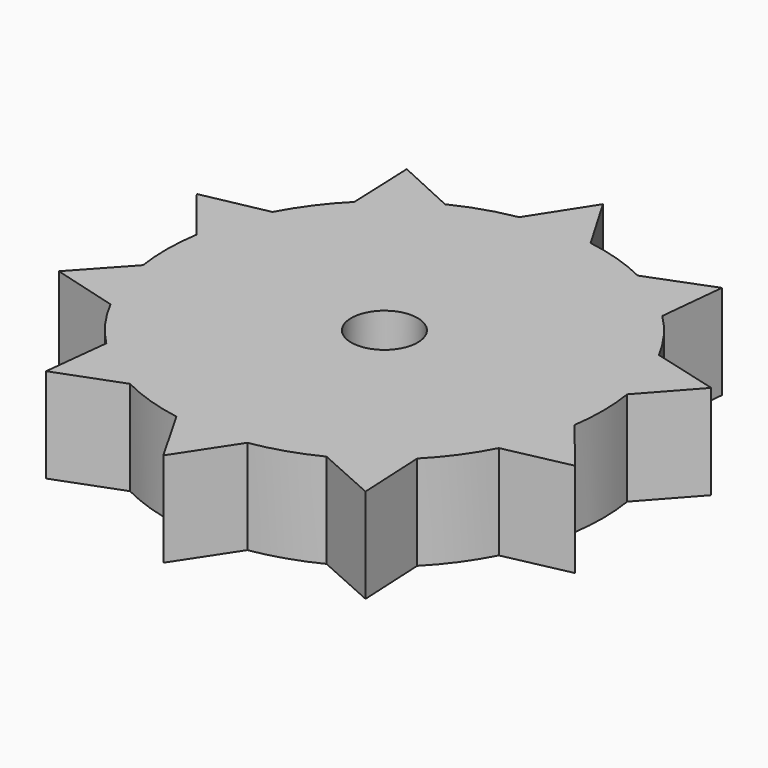
from build123d import *

# Parameters (mm, degrees)
F0_R     = 8.924881
F1_DEPTH = 25.4


with BuildPart() as f1:
    # F0 (on Top) → F1 (new body)
    with BuildSketch(Plane.XY):
        with BuildLine():
            Line((0, 73.399357), (-10.024788, 57.810382))
            ThreePointArc((-10.024788, 57.810382), (-18.123263, 55.803978), (-25.855271, 52.669172))
            Line((-25.855271, 52.669172), (-42.100142, 60.125234))
            Line((-42.100142, 60.125234), (-41.370499, 41.605511))
            ThreePointArc((-41.370499, 41.605511), (-47.193789, 34.860908), (-51.928579, 27.312257))
            Line((-51.928579, 27.312257), (-69.446667, 23.761863))
            Line((-69.446667, 23.761863), (-57.942551, 9.230248))
            ThreePointArc((-57.942551, 9.230248), (-58.672093, 0.349475), (-58.048394, -8.53936))
            Line((-58.048394, -8.53936), (-70.108395, -21.731974))
            Line((-70.108395, -21.731974), (-52.250248, -26.691726))
            ThreePointArc((-52.250248, -26.691726), (-47.605717, -34.296244), (-41.863184, -41.109737))
            Line((-41.863184, -41.109737), (-43.831057, -58.875327))
            Line((-43.831057, -58.875327), (-26.480851, -52.357437))
            ThreePointArc((-26.480851, -52.357437), (-18.246902, -55.763673), (-9.592097, -57.883748))
            Line((-9.592097, -57.883748), (-0.711689, -73.395907))
            Line((-0.711689, -73.395907), (9.46378, -57.904866))
            ThreePointArc((9.46378, -57.904866), (18.123263, -55.803978), (26.364742, -52.416))
            Line((26.364742, -52.416), (42.681144, -59.714199))
            Line((42.681144, -59.714199), (41.771966, -41.202421))
            ThreePointArc((41.771966, -41.202421), (47.529586, -34.401673), (52.190961, -26.807467))
            Line((52.190961, -26.807467), (69.6738, -23.087383))
            Line((69.6738, -23.087383), (58.029324, -8.667996))
            ThreePointArc((58.029324, -8.667996), (58.672724, 0.219434), (57.962866, 9.101802))
            Line((57.962866, 9.101802), (69.894383, 22.410732))
            Line((69.894383, 22.410732), (51.988986, 27.197096))
            ThreePointArc((51.988986, 27.197096), (47.270938, 34.756223), (41.462611, 41.513715))
            Line((41.462611, 41.513715), (43.258134, 59.297551))
            Line((43.258134, 59.297551), (25.971943, 52.611737))
            ThreePointArc((25.971943, 52.611737), (17.705353, 55.937976), (9.030398, 57.974034))
            Line((9.030398, 57.974034), (0, 73.399357))
        make_face()
        Circle(F0_R, mode=Mode.SUBTRACT)
    extrude(amount=F1_DEPTH)


solid = f1.part
